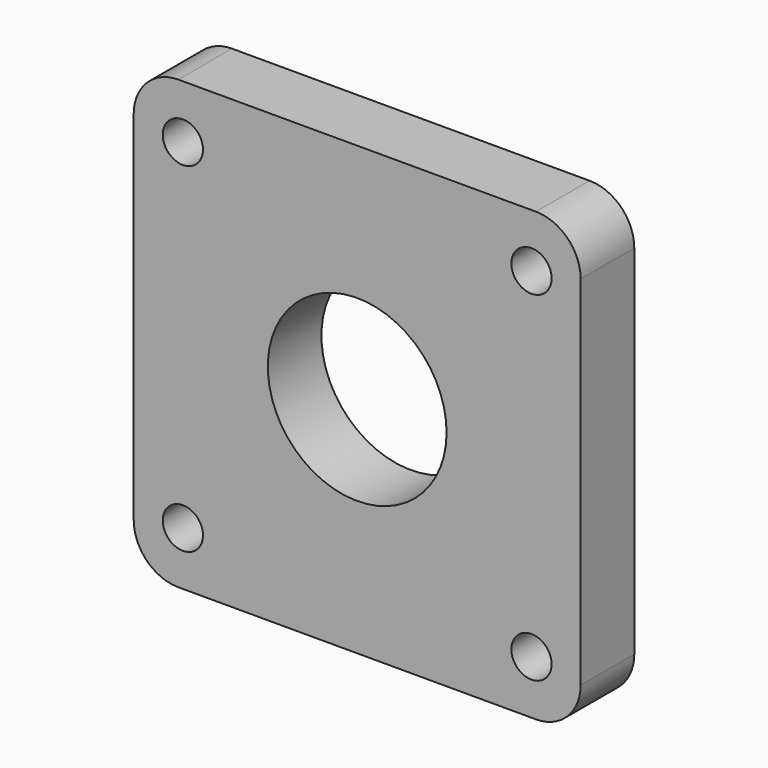
from build123d import *

# Parameters (mm, degrees)
F0_R     = 4.5
F0_R_2   = 20
F1_DEPTH = 15


with BuildPart() as f1:
    # F0 (on Front) → F1 (new body)
    with BuildSketch(Plane.XZ):
        with BuildLine():
            Line((40, 50), (-40, 50))
            ThreePointArc((-40, 50), (-47.071068, 47.071068), (-50, 40))
            Line((-50, 40), (-50, -40))
            ThreePointArc((-50, -40), (-47.071068, -47.071068), (-40, -50))
            Line((-40, -50), (40, -50))
            ThreePointArc((40, -50), (47.071068, -47.071068), (50, -40))
            Line((50, -40), (50, 40))
            ThreePointArc((50, 40), (47.071068, 47.071068), (40, 50))
        make_face()
        with Locations((-39, -38)):
            Circle(F0_R, mode=Mode.SUBTRACT)
        with Locations((39, -38)):
            Circle(F0_R, mode=Mode.SUBTRACT)
        with Locations((-39, 38)):
            Circle(F0_R, mode=Mode.SUBTRACT)
        Circle(F0_R_2, mode=Mode.SUBTRACT)
        with Locations((39, 38)):
            Circle(F0_R, mode=Mode.SUBTRACT)
    extrude(amount=F1_DEPTH)


solid = f1.part
